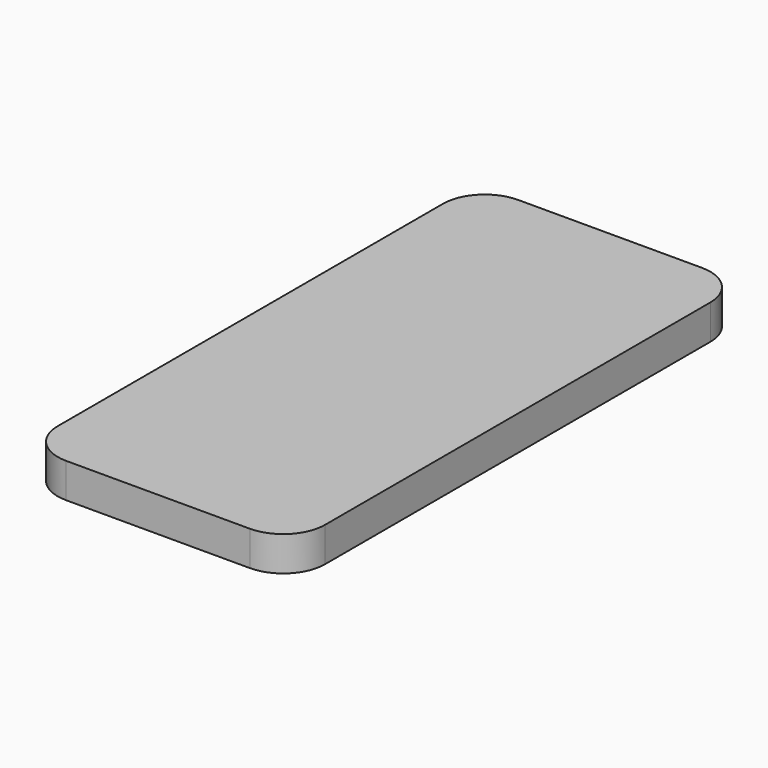
from build123d import *

# Parameters (mm, degrees)
F0_W     = 58.57
F0_H     = 0.6
F0_H_2   = 100.63
F1_DEPTH = 7.6


with BuildPart() as f1:
    # F0 (on Top) → F1 (new body)
    with BuildSketch(Plane.XY):
        with BuildLine():
            ThreePointArc((29.285, 52.765), (26.605027, 59.235027), (20.135, 61.915))
            Line((20.135, 61.915), (-20.135, 61.915))
            ThreePointArc((-20.135, 61.915), (-26.605027, 59.235027), (-29.285, 52.765))
            Line((-29.285, 52.765), (-29.285, 50.915))
            Line((-29.285, 50.915), (29.285, 50.915))
            Line((29.285, 50.915), (29.285, 52.765))
        make_face()
        with Locations((0, 50.615)):
            Rectangle(F0_W, F0_H)
        Rectangle(F0_W, F0_H_2)
        with Locations((0, -50.615)):
            Rectangle(F0_W, F0_H)
        with BuildLine():
            Line((29.285, -52.765), (29.285, -50.915))
            Line((29.285, -50.915), (-29.285, -50.915))
            Line((-29.285, -50.915), (-29.285, -52.765))
            ThreePointArc((-29.285, -52.765), (-26.605027, -59.235027), (-20.135, -61.915))
            Line((-20.135, -61.915), (20.135, -61.915))
            ThreePointArc((20.135, -61.915), (26.605027, -59.235027), (29.285, -52.765))
        make_face()
    extrude(amount=F1_DEPTH)


solid = f1.part
